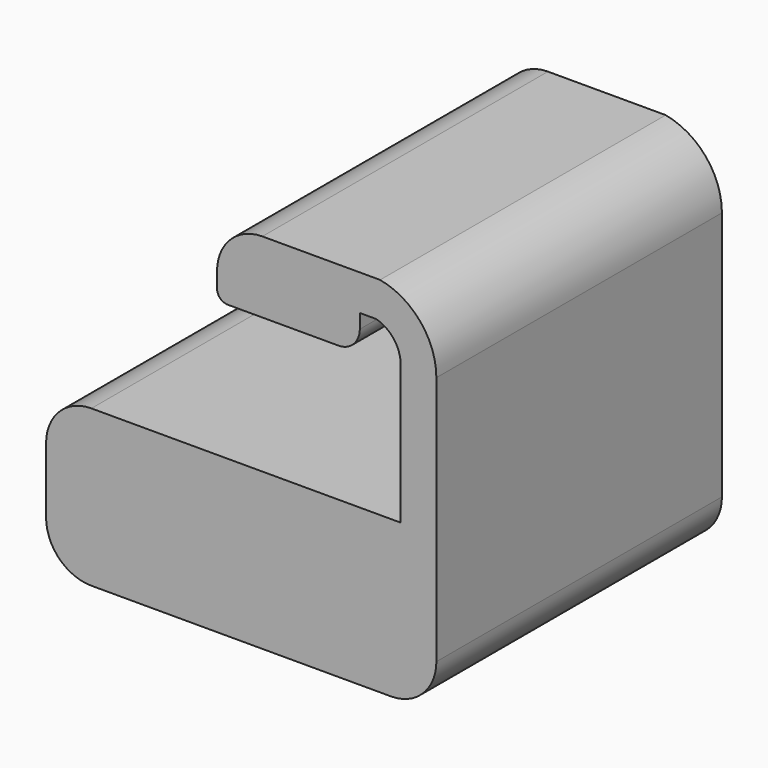
from build123d import *

# Parameters (mm, degrees)
F1_DEPTH = 25


with BuildPart() as f1:
    # F0 (on Front) → F1 (new body, symmetric)
    with BuildSketch(Plane.XZ):
        with BuildLine():
            Line((16.612064, 32.930892), (16.612064, 34.930892))
            Line((16.612064, 34.930892), (16.612064, 39.930892))
            Line((16.612064, 39.930892), (2.962064, 39.930892))
            ThreePointArc((2.962064, 39.930892), (-1.528064, 38.07102), (-3.387936, 33.580892))
            Line((-3.387936, 33.580892), (-3.387936, 31.430892))
            ThreePointArc((-3.387936, 31.430892), (-2.948596, 30.370232), (-1.887936, 29.930892))
            Line((-1.887936, 29.930892), (13.612064, 29.930892))
            ThreePointArc((13.612064, 29.930892), (15.733384, 30.809572), (16.612064, 32.930892))
        make_face()
        with BuildLine():
            Line((22.335033, 10.934645), (-20.985033, 10.934645))
            ThreePointArc((-20.985033, 10.934645), (-25.475161, 9.074773), (-27.335033, 4.584645))
            Line((-27.335033, 4.584645), (-27.335033, -4.584645))
            ThreePointArc((-27.335033, -4.584645), (-25.475161, -9.074773), (-20.985033, -10.934645))
            Line((-20.985033, -10.934645), (20.985033, -10.934645))
            ThreePointArc((20.985033, -10.934645), (25.475161, -9.074773), (27.335033, -4.584645))
            Line((27.335033, -4.584645), (27.335033, 10.934645))
            Line((27.335033, 10.934645), (22.335033, 10.934645))
        make_face()
        with BuildLine():
            Line((22.335033, 30.433444), (22.335033, 10.934645))
            Line((22.335033, 10.934645), (27.335033, 10.934645))
            Line((27.335033, 10.934645), (27.335033, 30.433444))
            ThreePointArc((27.335033, 30.433444), (25.109878, 36.602568), (19.459069, 39.930892))
            Line((19.459069, 39.930892), (16.612064, 39.930892))
            Line((16.612064, 39.930892), (16.612064, 34.930892))
            Line((16.612064, 34.930892), (18.907292, 34.930892))
            ThreePointArc((18.907292, 34.930892), (21.380409, 33.26083), (22.335033, 30.433444))
        make_face()
    extrude(amount=F1_DEPTH, both=True)


solid = f1.part
